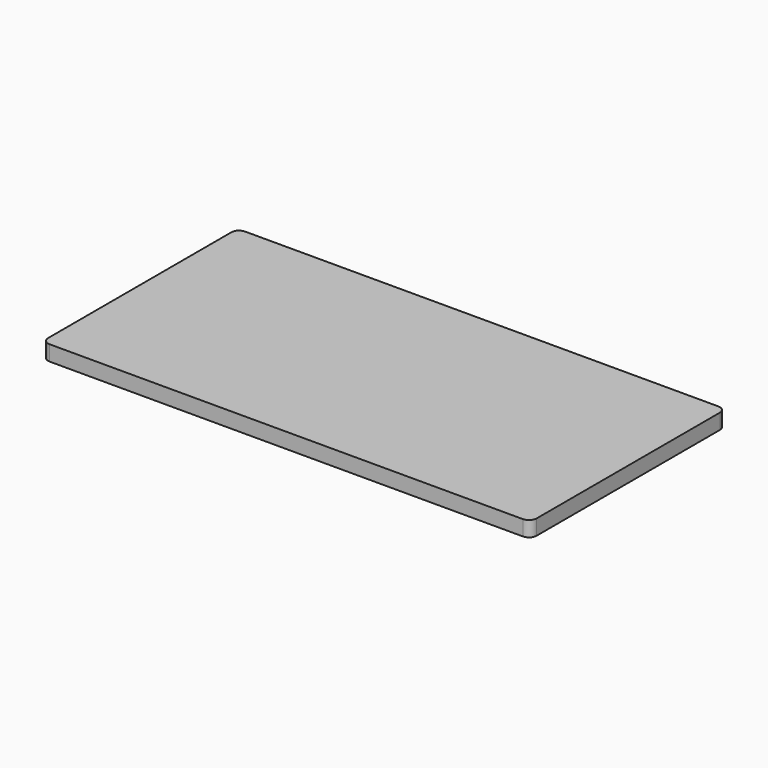
from build123d import *

# Parameters (mm, degrees)
SKETCH_W  = 64
SKETCH_H  = 32
PAD_DEPTH = 2
FILLET_R  = 1


with BuildPart() as part:
    # Sketch → Pad (new body)
    with BuildSketch(Plane.XY):
        with Locations((32, 16)):
            Rectangle(SKETCH_W, SKETCH_H)
    extrude(amount=PAD_DEPTH)

    # Fillet
    fillet_edges = [part.edges().sort_by_distance(p)[0] for p in [
        (64, 32, 1),
        (0, 32, 1),
        (0, 0, 1),
        (64, 0, 1),
    ]]
    fillet(fillet_edges, radius=FILLET_R)


solid = part.part
